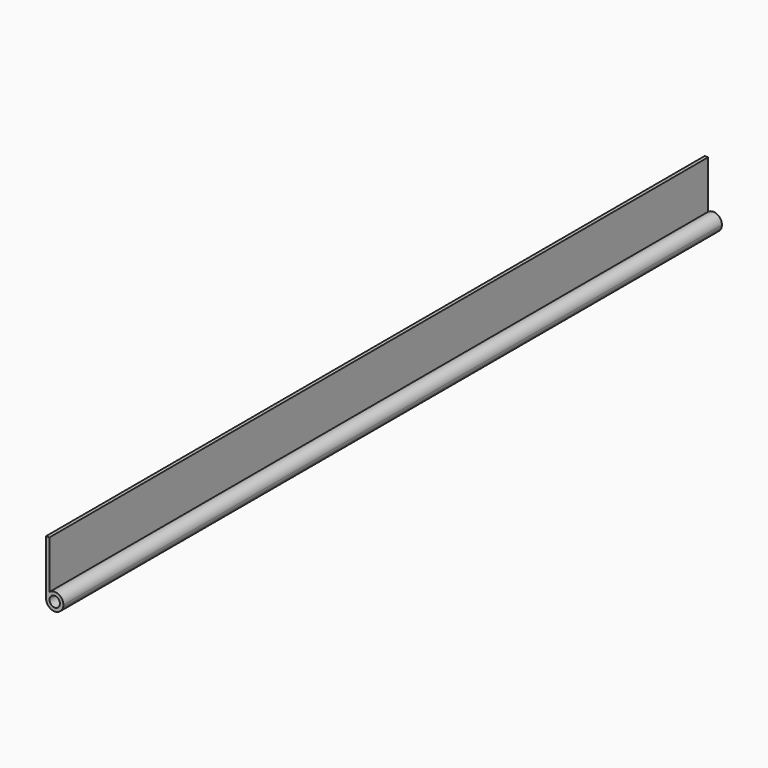
from build123d import *

# Parameters (mm, degrees)
F0_R     = 4.826
F1_DEPTH = 381


with BuildPart() as f1:
    # F0 (on Front) → F1 (new body, symmetric)
    with BuildSketch(Plane.XZ):
        with BuildLine():
            Line((-8.001, 50.8), (-8.001, 0))
            ThreePointArc((-8.001, 0), (0, -8.001), (8.001, 0))
            ThreePointArc((8.001, 0), (3.563929, 7.163408), (-4.826, 6.381671))
            Line((-4.826, 6.381671), (-4.826, 50.8))
            Line((-4.826, 50.8), (-8.001, 50.8))
        make_face()
        Circle(F0_R, mode=Mode.SUBTRACT)
    extrude(amount=F1_DEPTH, both=True)


solid = f1.part
